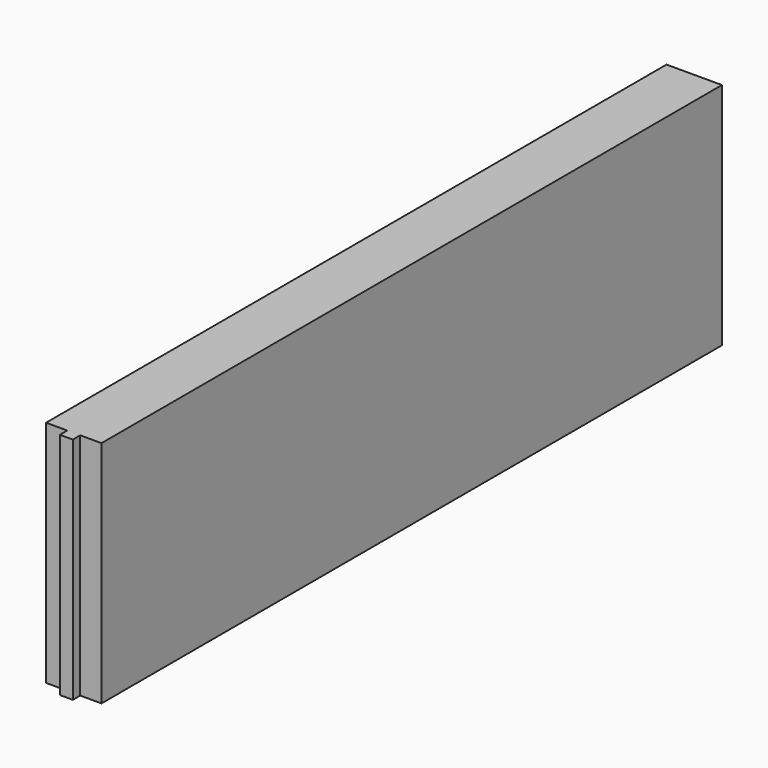
from build123d import *

# Parameters (mm, degrees)
F0_W     = 168
F0_H     = 49.636355
F1_DEPTH = 12
F2_W     = 1.4
F2_H     = 49.636355
F3_DEPTH = 2


with BuildPart() as f1:
    # F0 (on Right) → F1 (new body)
    with BuildSketch(Plane.YZ):
        with Locations((-0.88112, 24.818177)):
            Rectangle(F0_W, F0_H)
    extrude(amount=F1_DEPTH)

    # F2 (on face) → F3 (join)
    with BuildSketch(Plane.XZ.offset(84.88112)):
        with Locations((6.7, 24.818177)):
            Rectangle(F2_W, F2_H)
        with Locations((5.3, 24.818177)):
            Rectangle(F2_W, F2_H)
    extrude(amount=F3_DEPTH)


solid = f1.part
